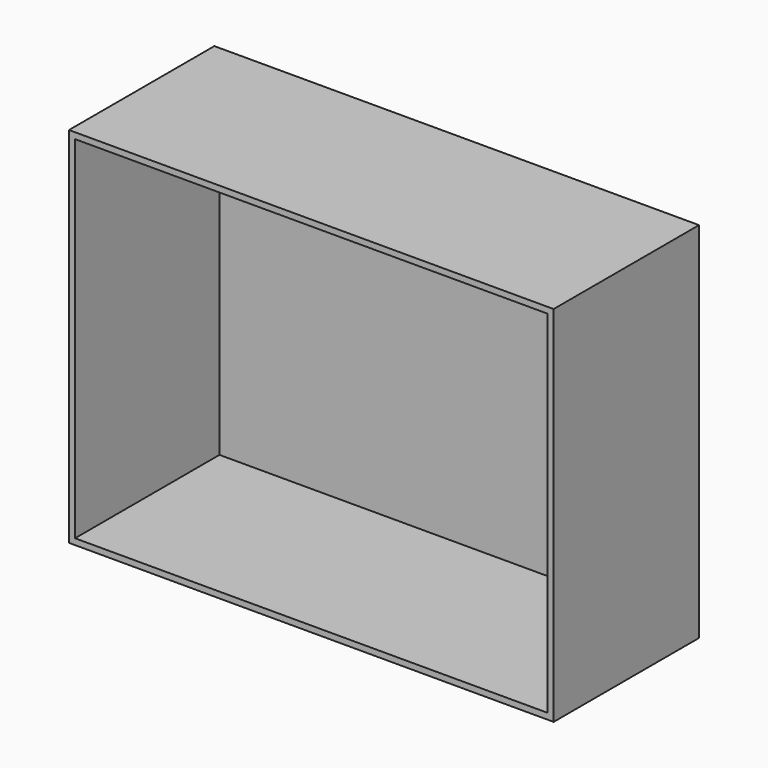
from build123d import *

# Parameters (mm, degrees)
F0_W     = 400
F0_H     = 300
F0_W_2   = 390.000014
F0_H_2   = 290.000014
F1_DEPTH = 150
F2_W     = 390.000014
F2_H     = 290.000014
F3_DEPTH = 1


with BuildPart() as f1:
    # F0 (on Front) → F1 (new body)
    with BuildSketch(Plane.XZ):
        Rectangle(F0_W, F0_H)
        Rectangle(F0_W_2, F0_H_2, mode=Mode.SUBTRACT)
    extrude(amount=F1_DEPTH)

    # F2 (on face) → F3 (join)
    with BuildSketch(Plane(origin=(0, 0, 0), x_dir=(-1, 0, 0), z_dir=(0, 1, 0))):
        Rectangle(F2_W, F2_H)
    extrude(amount=-F3_DEPTH)


solid = f1.part
